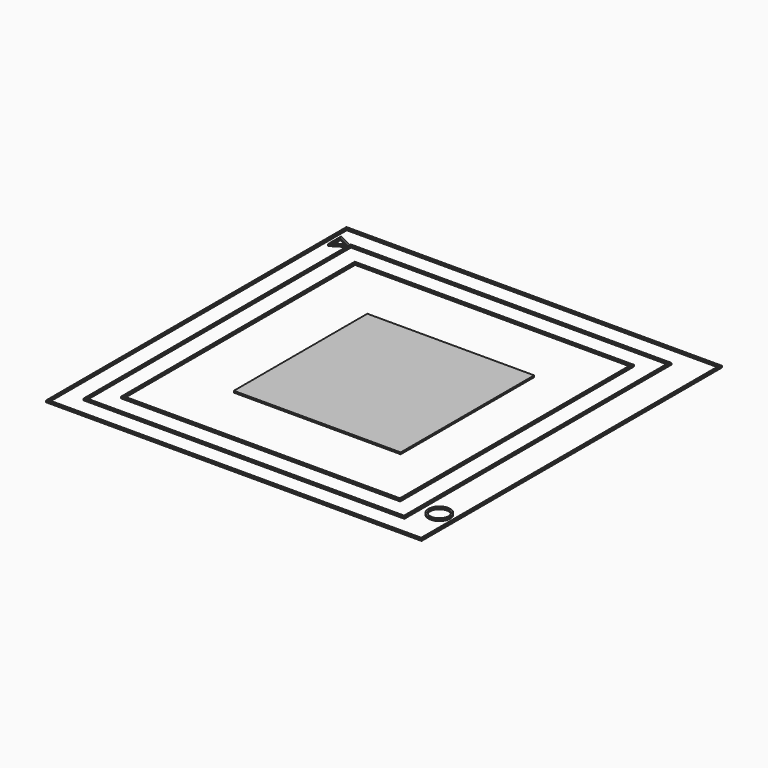
from build123d import *

# Parameters (mm, degrees)
F1_W     = 225
F1_H     = 225
F1_W_2   = 223
F1_H_2   = 223
F2_DEPTH = 1
F1_W_3   = 190.2133469
F1_H_3   = 198
F1_W_4   = 167.2133469
F1_H_4   = 175
F1_W_5   = 165.2133469
F1_H_5   = 173
F1_R     = 6.5
F1_R_2   = 5.5
F1_W_6   = 100
F1_H_6   = 100


with BuildPart() as f2:
    # F1 (on Top) → F2 (new body)
    with BuildSketch(Plane.XY):
        with Locations((21.0175617039, 40.3632308638)):
            Rectangle(F1_W, F1_H)
        with Locations((21.0175617039, 40.3632308638)):
            Rectangle(F1_W_2, F1_H_2, mode=Mode.SUBTRACT)
    extrude(amount=F2_DEPTH)


with BuildPart() as f2b:
    # F1 (on Top) → F2, piece 2 (new body)
    with BuildSketch(Plane.XY):
        Polygon((113.2309086039, 140.3632308638), (-78.9824382961, 140.3632308638), (-78.9824382961, 139.580053155), (-78.5521527463, 139.3632308638), (-78.9824382961, 139.0982258413), (-78.9824382961, -59.6367691362), (113.2309086039, -59.6367691362), align=None)
        with Locations((17.1242351539, 40.3632308638)):
            Rectangle(F1_W_3, F1_H_3, mode=Mode.SUBTRACT)
    extrude(amount=F2_DEPTH)


with BuildPart() as f2c:
    # F1 (on Top) → F2, piece 3 (new body)
    with BuildSketch(Plane.XY):
        with Locations((17.1242351539, 40.3632308638)):
            Rectangle(F1_W_4, F1_H_4)
        with Locations((17.1242351539, 40.3632308638)):
            Rectangle(F1_W_5, F1_H_5, mode=Mode.SUBTRACT)
    extrude(amount=F2_DEPTH)


with BuildPart() as f2d:
    # F1 (on Top) → F2, piece 4 (new body)
    with BuildSketch(Plane.XY):
        with Locations((123.3742351539, -46.1367691362)):
            Circle(F1_R)
        with Locations((123.3742351539, -46.1367691362)):
            Circle(F1_R_2, mode=Mode.SUBTRACT)
    extrude(amount=F2_DEPTH)


with BuildPart() as f2e:
    # F1 (on Top) → F2, piece 5 (new body)
    with BuildSketch(Plane.XY):
        with Locations((21.0175617039, 40.3632308638)):
            Rectangle(F1_W_6, F1_H_6)
    extrude(amount=F2_DEPTH)


with BuildPart() as f2f:
    # F1 (on Top) → F2, piece 6 (new body)
    with BuildSketch(Plane.XY):
        Polygon((-78.9824382961, 139.0982258413), (-78.9824382961, 139.580053155), (-87.4824382961, 143.8632308638), (-87.4824382961, 133.8632308638), align=None)
        Polygon((-86.4824382961, 135.6535530649), (-86.4824382961, 142.2395425821), (-80.6009615945, 139.2758472994), align=None, mode=Mode.SUBTRACT)
    extrude(amount=F2_DEPTH)


solid = Compound([f2.part, f2b.part, f2c.part, f2d.part, f2e.part, f2f.part])
